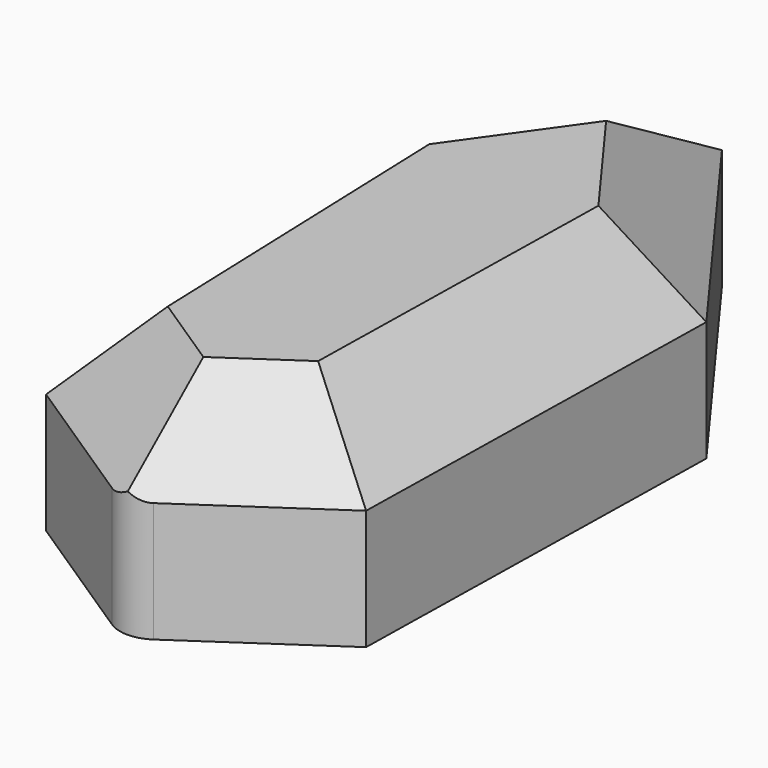
from build123d import *

# Parameters (mm, degrees)
F2_DEPTH = 12.7
F3_SIZE  = 5.2832
F0_R     = 2.286


with BuildPart() as f2:
    # F1 (on Top) → F2 (new body)
    with BuildSketch(Plane.XY):
        Polygon((10.633536, 11.875212), (0, 26.371382), (0.358835, -20.400941), (10.128893, -13.75857), align=None)
        Polygon((0.358835, -20.400941), (0, 26.371382), (-10.409869, 11.713768), (-9.511987, -13.909254), align=None)
    extrude(amount=F2_DEPTH)

    # F3
    f3_edges = [f2.edges().sort_by_distance(p)[0] for p in [
        (-9.960928, -1.097743, 12.7),
        (-4.576576, -17.155098, 12.7),
        (5.243864, -17.079756, 12.7),
        (10.381214, -0.941679, 12.7),
        (5.316768, 19.123297, 12.7),
        (-5.204935, 19.042575, 12.7),
    ]]
    chamfer(f3_edges, length=F3_SIZE)

    # F0
    f0_edges = [f2.edges().sort_by_distance(p)[0] for p in [
        (0.358835, -20.400941, 3.7084),
    ]]
    fillet(f0_edges, radius=F0_R)


solid = f2.part
